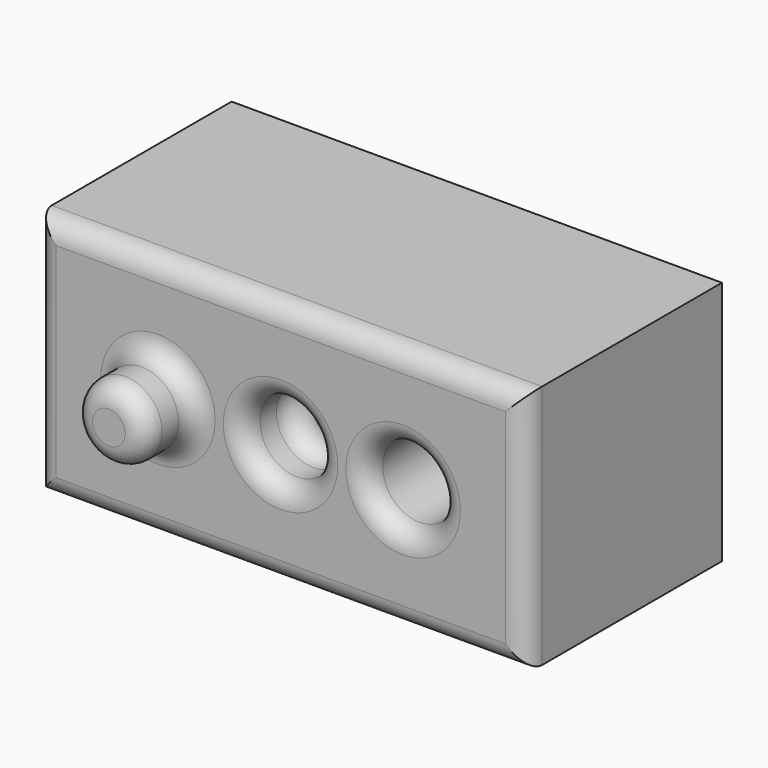
from build123d import *

# Parameters (mm, degrees)
F1_DEPTH = 60
F3_DEPTH = 75
F4_DEPTH = 45
F5_R     = 5
F6_R     = 5
F7_R     = 5


with BuildPart() as f1:
    # F0 (on Front) → F1 (new body)
    with BuildSketch(Plane.XZ):
        with BuildLine():
            ThreePointArc((81, 0), (90, 9), (99, 0))
            Line((99, 0), (120, 0))
            Line((120, 0), (120, 30))
            Line((120, 30), (0, 30))
            Line((0, 30), (0, 0))
            Line((0, 0), (21, 0))
            ThreePointArc((21, 0), (30, 9), (39, 0))
            Line((39, 0), (51, 0))
            ThreePointArc((51, 0), (60, 9), (69, 0))
            Line((69, 0), (81, 0))
        make_face()
        with BuildLine():
            Line((120, 0), (99, 0))
            ThreePointArc((99, 0), (90, -9), (81, 0))
            Line((81, 0), (69, 0))
            ThreePointArc((69, 0), (60, -9), (51, 0))
            Line((51, 0), (39, 0))
            ThreePointArc((39, 0), (30, -9), (21, 0))
            Line((21, 0), (0, 0))
            Line((0, 0), (0, -30))
            Line((0, -30), (120, -30))
            Line((120, -30), (120, 0))
        make_face()
    extrude(amount=F1_DEPTH)

    # F2 (on Front) → F3 (join)
    with BuildSketch(Plane.XZ):
        with BuildLine():
            ThreePointArc((39, 0), (30, 9), (21, 0))
            Line((21, 0), (30, 0))
            Line((30, 0), (39, 0))
        make_face()
        with BuildLine():
            Line((30, 0), (21, 0))
            ThreePointArc((21, 0), (30, -9), (39, 0))
            Line((39, 0), (30, 0))
        make_face()
    extrude(amount=F3_DEPTH)

    # F2 (on Front) → F4 (join)
    with BuildSketch(Plane.XZ):
        with BuildLine():
            ThreePointArc((69, 0), (60, 9), (51, 0))
            Line((51, 0), (60, 0))
            Line((60, 0), (69, 0))
        make_face()
        with BuildLine():
            Line((60, 0), (51, 0))
            ThreePointArc((51, 0), (60, -9), (69, 0))
            Line((69, 0), (60, 0))
        make_face()
    extrude(amount=F4_DEPTH)

    # F5
    f5_edges = [f1.edges().sort_by_distance(p)[0] for p in [
        (81, -60, 0),
        (60, -60, 30),
        (0, -60, 0),
        (60, -60, -30),
        (120, -60, 0),
        (39, -60, 0),
        (51, -60, 0),
    ]]
    fillet(f5_edges, radius=F5_R)

    # F6
    f6_edges = [f1.edges().sort_by_distance(p)[0] for p in [
        (39, -75, 0),
    ]]
    fillet(f6_edges, radius=F6_R)

    # F7
    f7_edges = [f1.edges().sort_by_distance(p)[0] for p in [
        (51, -45, 0),
    ]]
    fillet(f7_edges, radius=F7_R)


solid = f1.part
